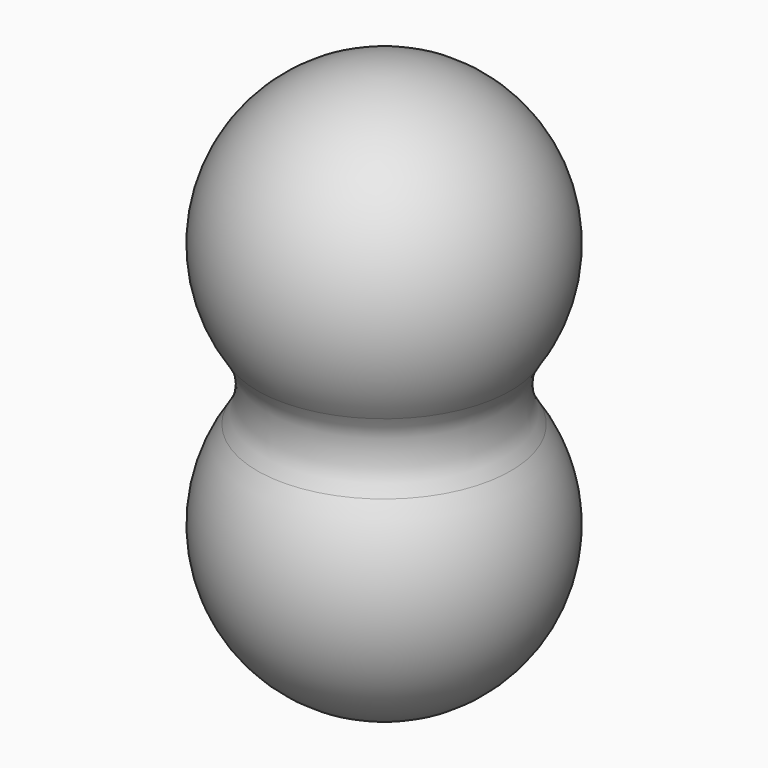
from build123d import *

# Parameters (mm, degrees)
F4_R = 20


with BuildPart() as f1:
    # F0 (on Front) → F1 (revolve)
    with BuildSketch(Plane.XZ):
        with BuildLine():
            Line((0, -50), (0, 50))
            ThreePointArc((0, 50), (-50, 0), (0, -50))
        make_face()
    revolve(axis=Axis((0, 0, 0), (0, 0, -1)))

    # F3: F1 across plane


with BuildPart() as f1_1:
    add(f1.part)
    add(f1.part.mirror(Plane.XY.offset(40)))

    # F4
    f4_edges = [f1_1.edges().sort_by_distance(p)[0] for p in [
        (30, 0, 40),
        (-47.434165, 0, -15.811388),
    ]]
    fillet(f4_edges, radius=F4_R)


solid = f1_1.part
